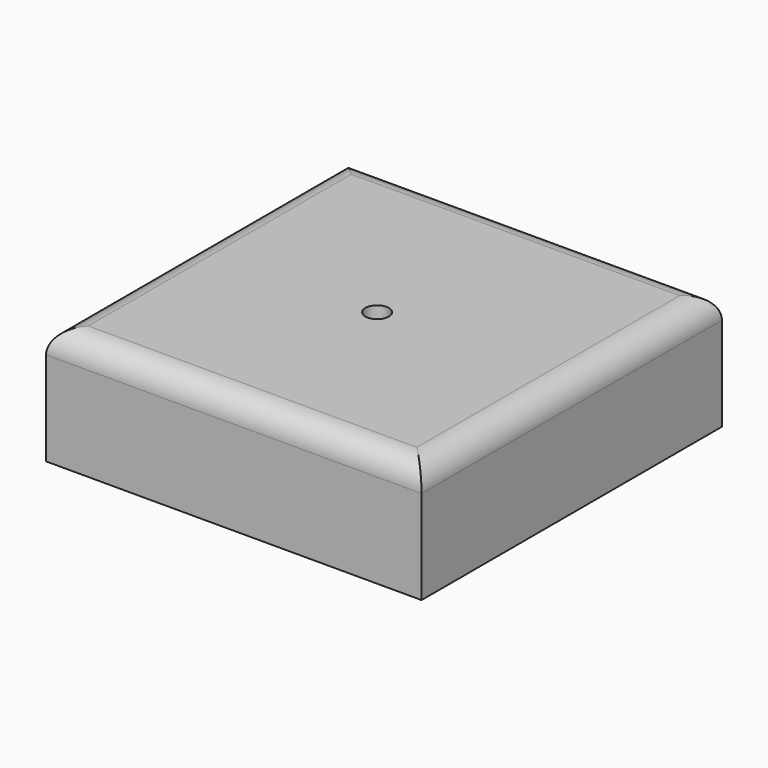
from build123d import *

# Parameters (mm, degrees)
F0_W     = 80
F0_H     = 80
F1_DEPTH = 25
F2_R     = 5
F4_D     = 5
F5_T     = -2.5


with BuildPart() as f1:
    # F0 (on Top) → F1 (new body)
    with BuildSketch(Plane.XY):
        with Locations((12.7454949915, 13.8860409707)):
            Rectangle(F0_W, F0_H)
    extrude(amount=F1_DEPTH)

    # F2
    f2_edges = [f1.edges().sort_by_distance(p)[0] for p in [
        (52.745495, 13.886041, 25),
        (12.745495, -26.113959, 25),
        (-27.254505, 13.886041, 25),
        (12.745495, 53.886041, 25),
    ]]
    fillet(f2_edges, radius=F2_R)

    # F4 (through all)
    with Locations(Plane.XY.offset(25)):
        with Locations((12.1779767796, 12.7649977803)):
            Hole(F4_D / 2)

    # F5
    f5_openings = [f1.faces().sort_by_distance(p)[0] for p in [
        (-26.123134, 13.886041, 0),
    ]]
    offset(amount=F5_T, openings=f5_openings)


solid = f1.part
